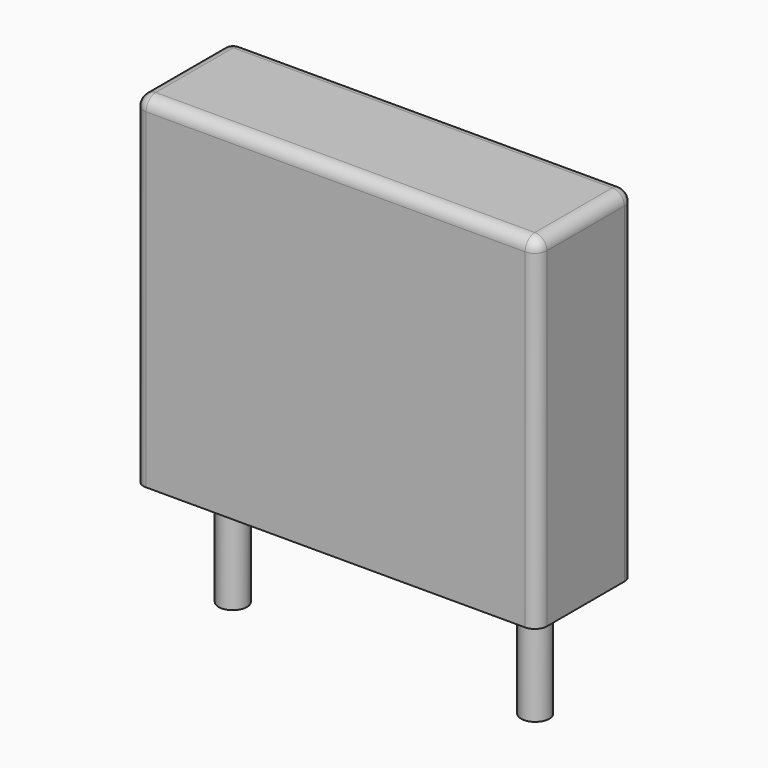
from build123d import *

# Parameters (mm, degrees)
SKETCH_W     = 10
SKETCH_H     = 3
PAD_DEPTH    = 8.5
FILLET_R     = 0.3
SKETCH001_R  = 0.35
PAD001_DEPTH = 3.2


with BuildPart() as fillet_body:
    # Sketch → Pad (new body)
    with BuildSketch(Plane.XY.offset(0.1)):
        with Locations((3.75, 0)):
            Rectangle(SKETCH_W, SKETCH_H)
    extrude(amount=PAD_DEPTH)

    # Fillet
    fillet_edges = [fillet_body.edges().sort_by_distance(p)[0] for p in [
        (-1.25, 0, 8.6),
        (-1.25, -1.5, 4.35),
        (3.75, -1.5, 8.6),
        (8.75, -1.5, 4.35),
        (8.75, 0, 8.6),
        (8.75, 1.5, 4.35),
        (3.75, 1.5, 8.6),
        (-1.25, 1.5, 4.35),
    ]]
    fillet(fillet_edges, radius=FILLET_R)


with BuildPart() as pad001:
    # Sketch001 → Pad001 (new body)
    with BuildSketch(Plane.XY.offset(0.5)):
        Circle(SKETCH001_R)
        with Locations((7.5, 0)):
            Circle(SKETCH001_R)
    extrude(amount=-PAD001_DEPTH)


solid = Compound([fillet_body.part, pad001.part])
